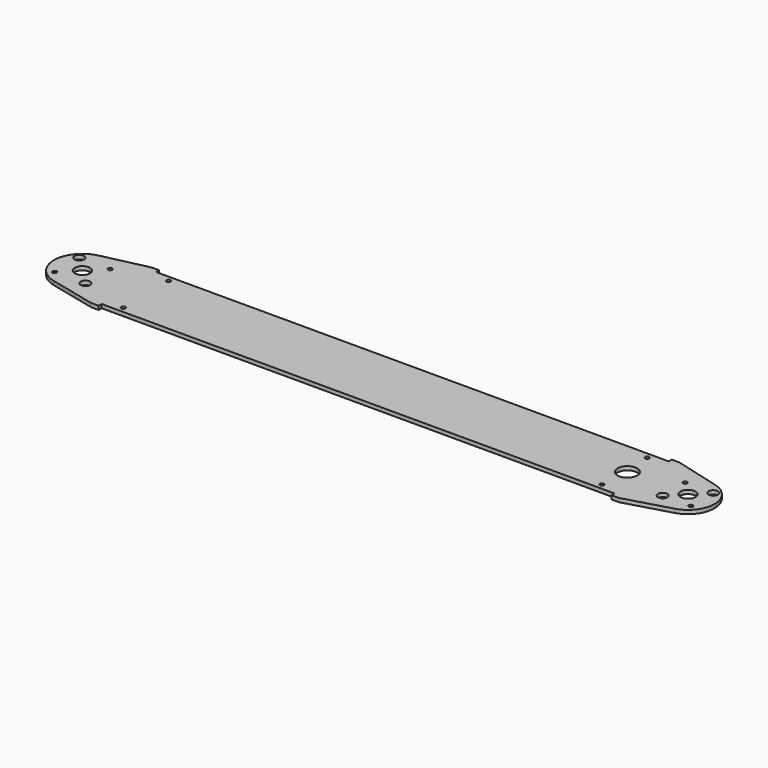
from build123d import *

# Parameters (mm, degrees)
F0_R     = 1.7272
F0_R_2   = 3.96875
F0_R_3   = 6.35
F0_R_4   = 8.221183
F1_DEPTH = 3.175


with BuildPart() as f1:
    # F0 (on Top) → F1 (new body)
    with BuildSketch(Plane.XY):
        with BuildLine():
            Line((-475.378193, 31.75), (-513.228467, 23.231407))
            ThreePointArc((-513.228467, 23.231407), (-531.812151, 0.128904), (-513.479674, -23.17344))
            Line((-513.479674, -23.17344), (-474.818103, -32.315493))
            Line((-474.818103, -32.315493), (-468.468103, -32.315493))
            Line((-468.468103, -32.315493), (-468.468103, -29.140493))
            Line((-468.468103, -29.140493), (-38.411718, -29.140493))
            Line((-38.411718, -29.140493), (-38.411718, -32.315493))
            Line((-38.411718, -32.315493), (-32.061718, -32.315493))
            Line((-32.061718, -32.315493), (6.126706, -21.36385))
            ThreePointArc((6.126706, -21.36385), (22.224151, 0.194294), (5.752253, 21.467701))
            Line((5.752253, 21.467701), (-32.621807, 31.75))
            Line((-32.621807, 31.75), (-38.971807, 31.75))
            Line((-38.971807, 31.75), (-38.971807, 28.575))
            Line((-38.971807, 28.575), (-469.028193, 28.575))
            Line((-469.028193, 28.575), (-469.028193, 31.75))
            Line((-469.028193, 31.75), (-475.378193, 31.75))
        make_face()
        with Locations((-454.180603, -24.377993)):
            Circle(F0_R, mode=Mode.SUBTRACT)
        with Locations((-520.909118, -12.909118)):
            Circle(F0_R, mode=Mode.SUBTRACT)
        with Locations((-495.090882, -12.909118)):
            Circle(F0_R_2, mode=Mode.SUBTRACT)
        with Locations((-52.699218, -24.377993)):
            Circle(F0_R, mode=Mode.SUBTRACT)
        with Locations((-11.786586, -11.786586)):
            Circle(F0_R_2, mode=Mode.SUBTRACT)
        with Locations((11.786586, -11.786586)):
            Circle(F0_R, mode=Mode.SUBTRACT)
        with Locations((-508, 0)):
            Circle(F0_R_3, mode=Mode.SUBTRACT)
        with Locations((-520.909118, 12.909118)):
            Circle(F0_R_2, mode=Mode.SUBTRACT)
        with Locations((-495.090882, 12.909118)):
            Circle(F0_R, mode=Mode.SUBTRACT)
        with Locations((-454.740693, 23.8125)):
            Circle(F0_R, mode=Mode.SUBTRACT)
        with Locations((-50.8, 0)):
            Circle(F0_R_4, mode=Mode.SUBTRACT)
        Circle(F0_R_3, mode=Mode.SUBTRACT)
        with Locations((-11.786586, 11.786586)):
            Circle(F0_R, mode=Mode.SUBTRACT)
        with Locations((11.786586, 11.786586)):
            Circle(F0_R_2, mode=Mode.SUBTRACT)
        with Locations((-53.259307, 23.8125)):
            Circle(F0_R, mode=Mode.SUBTRACT)
    extrude(amount=F1_DEPTH)


solid = f1.part
